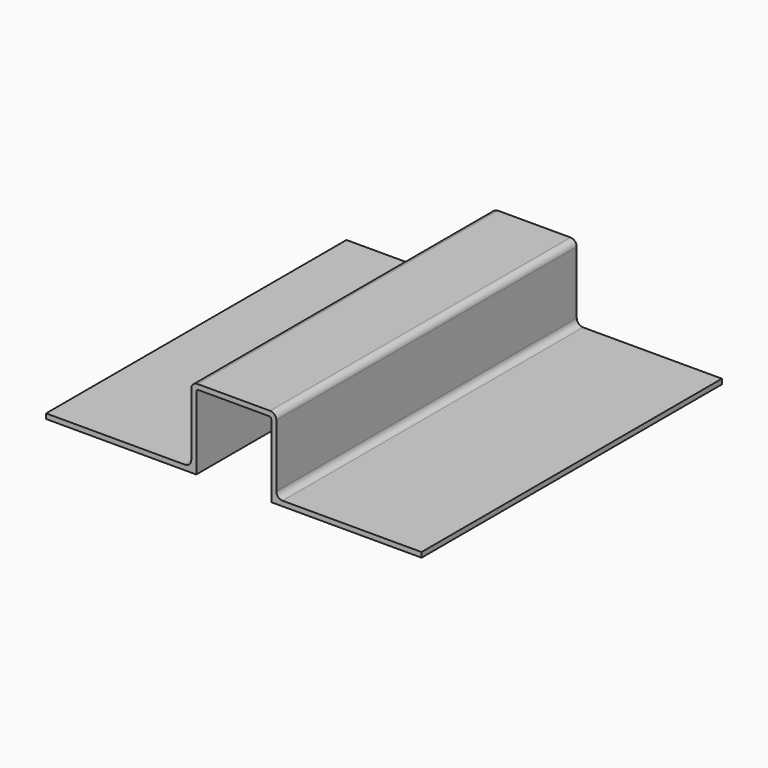
from build123d import *

# Parameters (mm, degrees)
F1_DEPTH = 300
F2_R     = 5
F3_R     = 2


with BuildPart() as f1:
    # F0 (on Front) → F1 (new body)
    with BuildSketch(Plane.XZ):
        Polygon((-150, 4), (-150, 0), (-30, 0), (-30, 60), (0, 60), (30, 60), (30, 0), (150, 0), (150, 4), (34, 4), (34, 64), (0, 64), (-34, 64), (-34, 4), align=None)
    extrude(amount=F1_DEPTH)

    # F2
    f2_edges = [f1.edges().sort_by_distance(p)[0] for p in [
        (-34, -150, 4),
        (34, -150, 4),
        (34, -150, 64),
        (-34, -150, 64),
    ]]
    fillet(f2_edges, radius=F2_R)

    # F3
    f3_edges = [f1.edges().sort_by_distance(p)[0] for p in [
        (30, -150, 60),
        (-30, -150, 60),
    ]]
    fillet(f3_edges, radius=F3_R)


solid = f1.part
